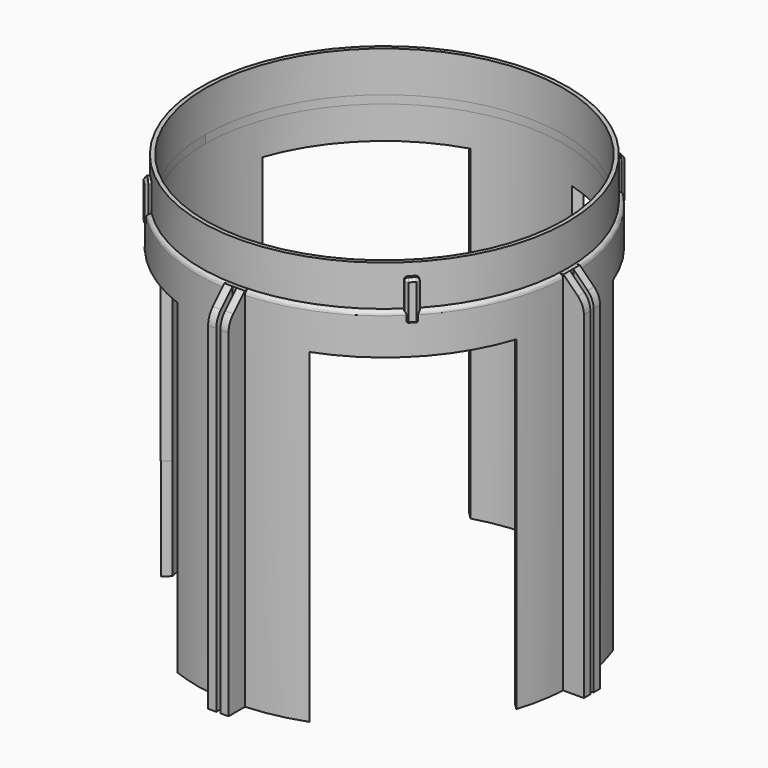
from build123d import *

# Parameters (mm, degrees)
BOX371_W                   = 101
BOX371_H                   = 40
BOX371_DEPTH               = 30
BOX371_PLACEMENT_ANGLE     = 45
BOX370_W                   = 101
BOX370_H                   = 40
BOX370_DEPTH               = 30
BOX370_PLACEMENT_ANGLE     = 45
BOX366_W                   = 2
BOX366_H                   = 3
BOX366_DEPTH               = 10
BOX366_PLACEMENT_ANGLE     = 45
FILLET249_R                = 0.8
FILLET250_R                = 0.8
CHAMFER054_SIZE            = 0.7
BOX367_W                   = 2
BOX367_H                   = 3
BOX367_DEPTH               = 10
BOX367_PLACEMENT_ANGLE     = 45
FILLET251_R                = 0.8
FILLET252_R                = 0.8
CHAMFER055_SIZE            = 0.7
CHAMFER055_PLACEMENT_ANGLE = 90
BOX368_W                   = 2
BOX368_H                   = 3
BOX368_DEPTH               = 10
BOX368_PLACEMENT_ANGLE     = 45
FILLET253_R                = 0.8
FILLET254_R                = 0.8
CHAMFER056_SIZE            = 0.7
CHAMFER056_PLACEMENT_ANGLE = 180
BOX369_W                   = 2
BOX369_H                   = 3
BOX369_DEPTH               = 10
BOX369_PLACEMENT_ANGLE     = 45
FILLET255_R                = 0.8
FILLET256_R                = 0.8
CHAMFER057_SIZE            = 0.7
CHAMFER057_PLACEMENT_ANGLE = 90
TUBE021_R                  = 45
TUBE021_R_2                = 44
TUBE021_DEPTH              = 12
BOX363_W                   = 10
BOX363_H                   = 1
BOX363_DEPTH               = 100
BOX362_W                   = 6
BOX362_H                   = 5
BOX362_DEPTH               = 90
CHAMFER053_SIZE            = 5
FILLET247_R                = 5
ARRAY024_COUNT             = 4
BOX365_W                   = 100
BOX365_H                   = 40
BOX365_DEPTH               = 70
BOX365_PLACEMENT_ANGLE     = 135
BOX364_W                   = 100
BOX364_H                   = 40
BOX364_DEPTH               = 70
BOX364_PLACEMENT_ANGLE     = 45
TUBE020_R                  = 46
TUBE020_R_2                = 44
TUBE020_DEPTH              = 90
FILLET248_R                = 1
FUSION232_PLACEMENT_ANGLE  = 180


with BuildPart() as cubo354:
    # Box371 → Box371 (new body)
    with BuildSketch(Plane.XY):
        with Locations((50.5, 20)):
            Rectangle(BOX371_W, BOX371_H)
    extrude(amount=BOX371_DEPTH)


with BuildPart() as cubo354_1:
    # Box371 placement: moved
    add(cubo354.part.moved(Location((-24, -50.5, -338))).rotate(Axis((-24, -50.5, -338), (0, 0, 1)), BOX371_PLACEMENT_ANGLE))


with BuildPart() as cubo353:
    # Box370 → Box370 (new body)
    with BuildSketch(Plane.XY):
        with Locations((50.5, 20)):
            Rectangle(BOX370_W, BOX370_H)
    extrude(amount=BOX370_DEPTH)


with BuildPart() as cubo353_1:
    # Box370 placement: moved
    add(cubo353.part.moved(Location((-47, 20, -338))).rotate(Axis((-47, 20, -338), (0, 0, -1)), BOX370_PLACEMENT_ANGLE))


with BuildPart() as chamfer054:
    # Box366 → Box366 (new body)
    with BuildSketch(Plane.XY):
        with Locations((1, 1.5)):
            Rectangle(BOX366_W, BOX366_H)
    extrude(amount=BOX366_DEPTH)


with BuildPart() as chamfer054_1:
    # Box366 placement: moved
    add(chamfer054.part.moved(Location((-32.5, -34, 47))).rotate(Axis((-32.5, -34, 47), (0, 0, 1)), BOX366_PLACEMENT_ANGLE))

    # Fillet249
    fillet249_edges = [chamfer054_1.edges().sort_by_distance(p)[0] for p in [
        (-31.792893, -33.292893, 57),
        (-33.914214, -31.171573, 57),
    ]]
    fillet(fillet249_edges, radius=FILLET249_R)

    # Fillet250
    fillet250_edges = [chamfer054_1.edges().sort_by_distance(p)[0] for p in [
        (-31.792893, -33.292893, 47),
        (-33.914214, -31.171573, 47),
    ]]
    fillet(fillet250_edges, radius=FILLET250_R)

    # Chamfer054
    chamfer054_edges = [chamfer054_1.edges().sort_by_distance(p)[0] for p in [
        (-32.5, -34, 52),
        (-34.62132, -31.87868, 52),
    ]]
    chamfer(chamfer054_edges, length=CHAMFER054_SIZE)


with BuildPart() as chamfer054_2:
    # Chamfer054 placement: moved
    add(chamfer054_1.part.moved(Location((0, 1, 0))))


with BuildPart() as chamfer055:
    # Box367 → Box367 (new body)
    with BuildSketch(Plane.XY):
        with Locations((1, 1.5)):
            Rectangle(BOX367_W, BOX367_H)
    extrude(amount=BOX367_DEPTH)


with BuildPart() as chamfer055_1:
    # Box367 placement: moved
    add(chamfer055.part.moved(Location((-32.5, -34, 47))).rotate(Axis((-32.5, -34, 47), (0, 0, 1)), BOX367_PLACEMENT_ANGLE))

    # Fillet251
    fillet251_edges = [chamfer055_1.edges().sort_by_distance(p)[0] for p in [
        (-31.792893, -33.292893, 57),
        (-33.914214, -31.171573, 57),
    ]]
    fillet(fillet251_edges, radius=FILLET251_R)

    # Fillet252
    fillet252_edges = [chamfer055_1.edges().sort_by_distance(p)[0] for p in [
        (-31.792893, -33.292893, 47),
        (-33.914214, -31.171573, 47),
    ]]
    fillet(fillet252_edges, radius=FILLET252_R)

    # Chamfer055
    chamfer055_edges = [chamfer055_1.edges().sort_by_distance(p)[0] for p in [
        (-32.5, -34, 52),
        (-34.62132, -31.87868, 52),
    ]]
    chamfer(chamfer055_edges, length=CHAMFER055_SIZE)


with BuildPart() as chamfer055_2:
    # Chamfer055 placement: moved
    add(chamfer055_1.part.moved(Location((0, 1, 0))).rotate(Axis((0, 1, 0), (0, 0, 1)), CHAMFER055_PLACEMENT_ANGLE))


with BuildPart() as chamfer056:
    # Box368 → Box368 (new body)
    with BuildSketch(Plane.XY):
        with Locations((1, 1.5)):
            Rectangle(BOX368_W, BOX368_H)
    extrude(amount=BOX368_DEPTH)


with BuildPart() as chamfer056_1:
    # Box368 placement: moved
    add(chamfer056.part.moved(Location((-32.5, -34, 47))).rotate(Axis((-32.5, -34, 47), (0, 0, 1)), BOX368_PLACEMENT_ANGLE))

    # Fillet253
    fillet253_edges = [chamfer056_1.edges().sort_by_distance(p)[0] for p in [
        (-31.792893, -33.292893, 57),
        (-33.914214, -31.171573, 57),
    ]]
    fillet(fillet253_edges, radius=FILLET253_R)

    # Fillet254
    fillet254_edges = [chamfer056_1.edges().sort_by_distance(p)[0] for p in [
        (-31.792893, -33.292893, 47),
        (-33.914214, -31.171573, 47),
    ]]
    fillet(fillet254_edges, radius=FILLET254_R)

    # Chamfer056
    chamfer056_edges = [chamfer056_1.edges().sort_by_distance(p)[0] for p in [
        (-32.5, -34, 52),
        (-34.62132, -31.87868, 52),
    ]]
    chamfer(chamfer056_edges, length=CHAMFER056_SIZE)


with BuildPart() as chamfer056_2:
    # Chamfer056 placement: moved
    add(chamfer056_1.part.moved(Location((-1, 0, 0))).rotate(Axis((-1, 0, 0), (0, 0, 1)), CHAMFER056_PLACEMENT_ANGLE))


with BuildPart() as chamfer057:
    # Box369 → Box369 (new body)
    with BuildSketch(Plane.XY):
        with Locations((1, 1.5)):
            Rectangle(BOX369_W, BOX369_H)
    extrude(amount=BOX369_DEPTH)


with BuildPart() as chamfer057_1:
    # Box369 placement: moved
    add(chamfer057.part.moved(Location((-32.5, -34, 47))).rotate(Axis((-32.5, -34, 47), (0, 0, 1)), BOX369_PLACEMENT_ANGLE))

    # Fillet255
    fillet255_edges = [chamfer057_1.edges().sort_by_distance(p)[0] for p in [
        (-31.792893, -33.292893, 57),
        (-33.914214, -31.171573, 57),
    ]]
    fillet(fillet255_edges, radius=FILLET255_R)

    # Fillet256
    fillet256_edges = [chamfer057_1.edges().sort_by_distance(p)[0] for p in [
        (-31.792893, -33.292893, 47),
        (-33.914214, -31.171573, 47),
    ]]
    fillet(fillet256_edges, radius=FILLET256_R)

    # Chamfer057
    chamfer057_edges = [chamfer057_1.edges().sort_by_distance(p)[0] for p in [
        (-32.5, -34, 52),
        (-34.62132, -31.87868, 52),
    ]]
    chamfer(chamfer057_edges, length=CHAMFER057_SIZE)


with BuildPart() as chamfer057_2:
    # Chamfer057 placement: moved
    add(chamfer057_1.part.moved(Location((0, -1, 0))).rotate(Axis((0, -1, 0), (0, 0, -1)), CHAMFER057_PLACEMENT_ANGLE))


with BuildPart() as obj1:
    # Tube021 → Tube021 (new body)
    with BuildSketch(Plane.XY.offset(48)):
        Circle(TUBE021_R)
        Circle(TUBE021_R_2, mode=Mode.SUBTRACT)
    extrude(amount=TUBE021_DEPTH)

    # Fusion233: union Chamfer054, Chamfer055, Chamfer056, Chamfer057
    add(chamfer054_2.part)
    add(chamfer055_2.part)
    add(chamfer056_2.part)
    add(chamfer057_2.part)


with BuildPart() as cubo346:
    # Box363 → Box363 (new body)
    with BuildSketch(Plane(origin=(46, -0.5, 0), x_dir=(1, 0, 0), z_dir=(0, 0, 1))):
        with Locations((5, 0.5)):
            Rectangle(BOX363_W, BOX363_H)
    extrude(amount=BOX363_DEPTH)


with BuildPart() as array024:
    # Box362 → Box362 (new body)
    with BuildSketch(Plane(origin=(45, -2.5, 0), x_dir=(1, 0, 0), z_dir=(0, 0, 1))):
        with Locations((3, 2.5)):
            Rectangle(BOX362_W, BOX362_H)
    extrude(amount=BOX362_DEPTH)

    # Cut361: cut Cubo346
    add(cubo346.part, mode=Mode.SUBTRACT)

    # Chamfer053
    chamfer053_edges = [array024.edges().sort_by_distance(p)[0] for p in [
        (51, 1.5, 0),
        (51, -1.5, 0),
    ]]
    chamfer(chamfer053_edges, length=CHAMFER053_SIZE)

    # Fillet247
    fillet247_edges = [array024.edges().sort_by_distance(p)[0] for p in [
        (51, -1.5, 5),
        (51, 1.5, 5),
    ]]
    fillet(fillet247_edges, radius=FILLET247_R)

    # Array024: Array024 ×4 about axis
    array024_axis = Axis((0, 0, 0), (0, 0, 1))


with BuildPart() as array024_1:
    add(array024.part)
    for i in range(1, ARRAY024_COUNT):
        add(array024.part.rotate(array024_axis, i * 360 / ARRAY024_COUNT))


with BuildPart() as cubo348:
    # Box365 → Box365 (new body)
    with BuildSketch(Plane.XY):
        with Locations((50, 20)):
            Rectangle(BOX365_W, BOX365_H)
    extrude(amount=BOX365_DEPTH)


with BuildPart() as cubo348_1:
    # Box365 placement: moved
    add(cubo348.part.moved(Location((50, -20, 10))).rotate(Axis((50, -20, 10), (0, 0, 1)), BOX365_PLACEMENT_ANGLE))


with BuildPart() as hueco001:
    # Box364 → Box364 (new body)
    with BuildSketch(Plane.XY):
        with Locations((50, 20)):
            Rectangle(BOX364_W, BOX364_H)
    extrude(amount=BOX364_DEPTH)


with BuildPart() as hueco001_1:
    # Box364 placement: moved
    add(hueco001.part.moved(Location((-23, -50, 10))).rotate(Axis((-23, -50, 10), (0, 0, 1)), BOX364_PLACEMENT_ANGLE))

    # Fusion231: union Cubo348
    add(cubo348_1.part)


with BuildPart() as obj2:
    # Tube020 → Tube020 (new body)
    with BuildSketch(Plane.XY):
        Circle(TUBE020_R)
        Circle(TUBE020_R_2, mode=Mode.SUBTRACT)
    extrude(amount=TUBE020_DEPTH)

    # Fillet248
    fillet248_edges = [obj2.edges().sort_by_distance(p)[0] for p in [
        (-46, 0, 0),
    ]]
    fillet(fillet248_edges, radius=FILLET248_R)

    # Cut362: cut Hueco001
    add(hueco001_1.part, mode=Mode.SUBTRACT)

    # Fusion232: union Array024
    add(array024_1.part)


with BuildPart() as obj2_1:
    # Fusion232 placement: moved
    add(obj2.part.moved(Location((0, 0, 50))).rotate(Axis((0, 0, 50), (0, 1, 0)), FUSION232_PLACEMENT_ANGLE))

    # Fusion234: union obj1
    add(obj1.part)


with BuildPart() as obj2_2:
    # Fusion234 placement: moved
    add(obj2_1.part.moved(Location((0, 0, -293))))

    # Cut363: cut Cubo353
    add(cubo353_1.part, mode=Mode.SUBTRACT)

    # Cut364: cut Cubo354
    add(cubo354_1.part, mode=Mode.SUBTRACT)


solid = obj2_2.part
